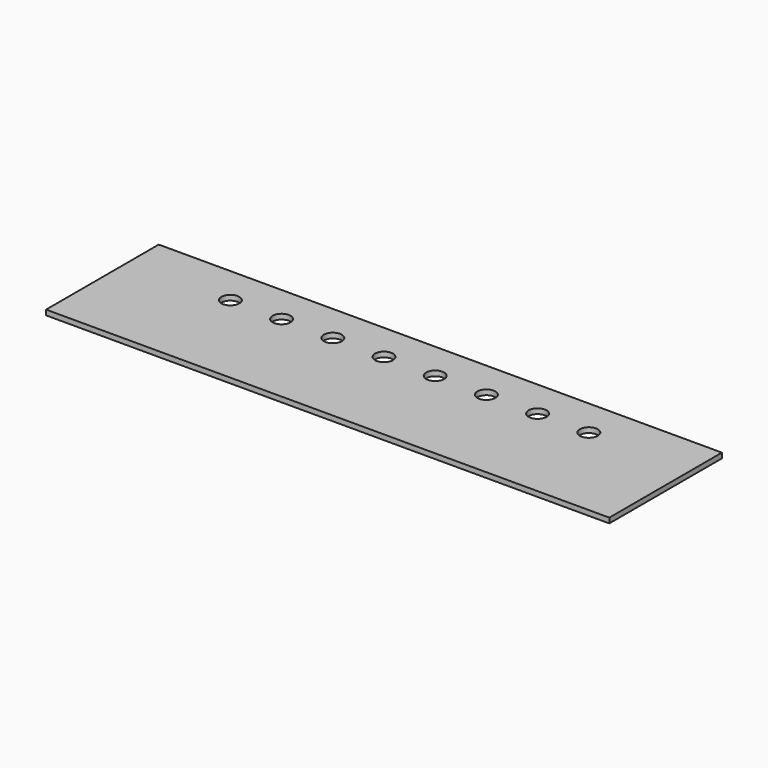
from build123d import *

# Parameters (mm, degrees)
F0_W     = 220
F0_H     = 55
F0_R     = 3.5
F1_DEPTH = 2


with BuildPart() as f1:
    # F0 (on Top) → F1 (new body)
    with BuildSketch(Plane.XY):
        with Locations((110, 27.5)):
            Rectangle(F0_W, F0_H)
        with Locations((40, 40)):
            Circle(F0_R, mode=Mode.SUBTRACT)
        with Locations((60, 40)):
            Circle(F0_R, mode=Mode.SUBTRACT)
        with Locations((80, 40)):
            Circle(F0_R, mode=Mode.SUBTRACT)
        with Locations((100, 40)):
            Circle(F0_R, mode=Mode.SUBTRACT)
        with Locations((120, 40)):
            Circle(F0_R, mode=Mode.SUBTRACT)
        with Locations((140, 40)):
            Circle(F0_R, mode=Mode.SUBTRACT)
        with Locations((160, 40)):
            Circle(F0_R, mode=Mode.SUBTRACT)
        with Locations((180, 40)):
            Circle(F0_R, mode=Mode.SUBTRACT)
    extrude(amount=F1_DEPTH)


solid = f1.part
